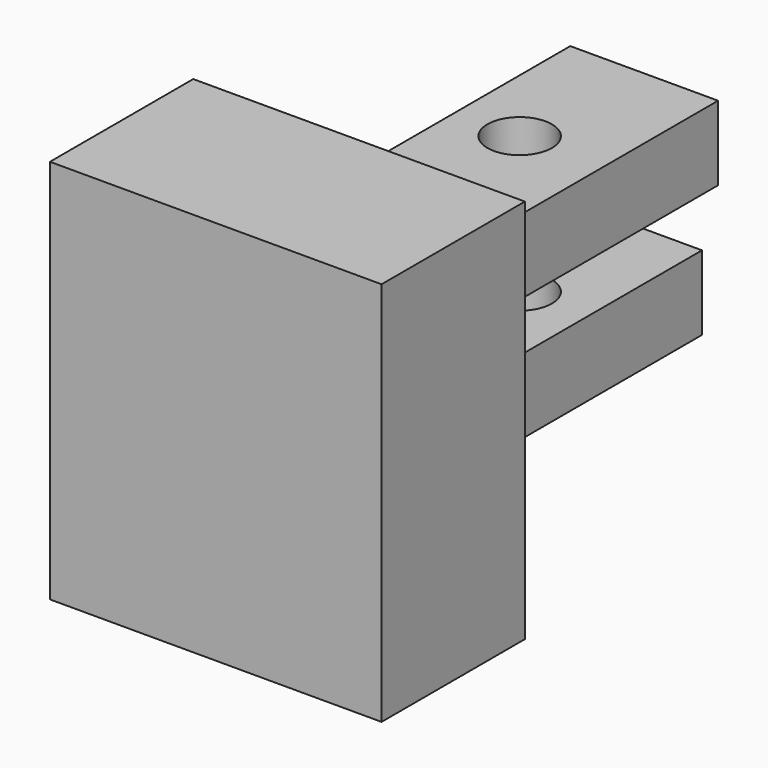
from build123d import *

# Parameters (mm, degrees)
F0_W     = 47.024399
F0_H     = 54.634411
F1_DEPTH = 25.4
F2_W     = 20.959661
F2_H     = 10.561608
F3_DEPTH = 50.8
F4_R     = 4.569204
F5_DEPTH = 42.271631


with BuildPart() as f1:
    # F0 (on Front) → F1 (new body)
    with BuildSketch(Plane.XZ):
        with Locations((23.512199, 27.317206)):
            Rectangle(F0_W, F0_H)
    extrude(amount=F1_DEPTH)

    # F2 (on face) → F3 (join)
    with BuildSketch(Plane(origin=(0, 0, 0), x_dir=(-1, 0, 0), z_dir=(0, 1, 0))):
        with Locations((-23.303836, 36.989827)):
            Rectangle(F2_W, F2_H)
        with Locations((-21.026581, 17.570276)):
            Rectangle(F2_W, F2_H)
    extrude(amount=F3_DEPTH)

    # F4 (on face) → F5 (cut, through all)
    with BuildSketch(Plane.XY.offset(42.270631)):
        with Locations((21.938689, 30.440513)):
            Circle(F4_R)
    extrude(amount=-F5_DEPTH, mode=Mode.SUBTRACT)


solid = f1.part
